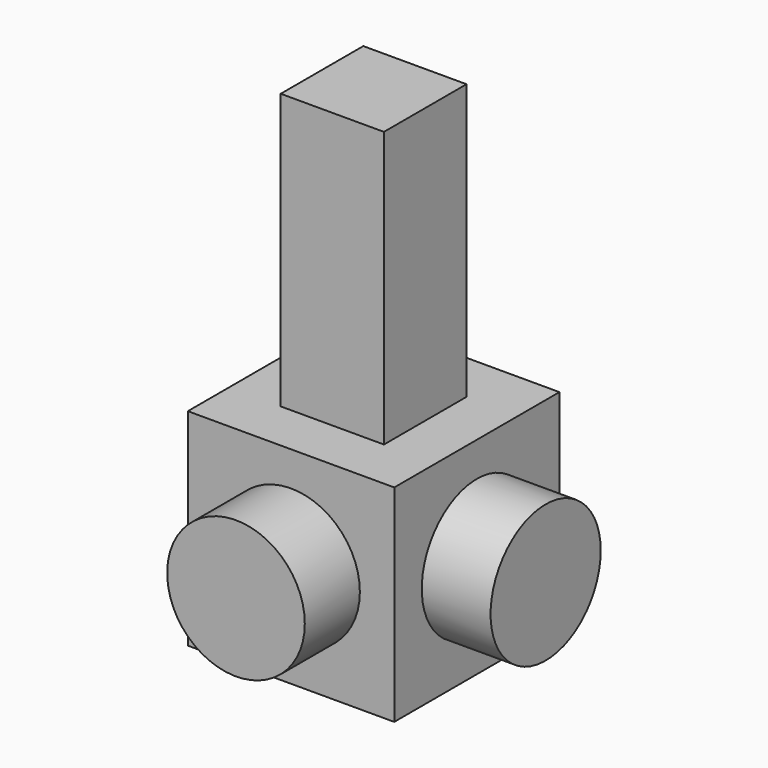
from build123d import *

# Parameters (mm, degrees)
F0_W      = 76.2
F0_H      = 76.2
F1_DEPTH  = 25.4
F1_FACE_W = 76.2
F1_FACE_H = 76.2
F2_DEPTH  = 50.8
F3_R      = 25.4
F4_DEPTH  = 25.4
F5_R      = 25.4
F6_DEPTH  = 25.4
F7_W      = 38.1
F7_H      = 38.1
F8_DEPTH  = 101.6


with BuildPart() as f1:
    # F0 (on Front) → F1 (new body)
    with BuildSketch(Plane.XZ):
        with Locations((-36.805706, 34.59075)):
            Rectangle(F0_W, F0_H)
    extrude(amount=F1_DEPTH)

    # F1_face (on face) → F2 (join)
    with BuildSketch(Plane(origin=(-36.805706, -25.4, 34.59075), x_dir=(1, 0, 0), z_dir=(0, -1, 0))):
        Rectangle(F1_FACE_W, F1_FACE_H)
    extrude(amount=F2_DEPTH)

    # F3 (on face) → F4 (join)
    with BuildSketch(Plane.XZ.offset(76.2)):
        with Locations((-36.805706, 34.59075)):
            Circle(F3_R)
    extrude(amount=F4_DEPTH)

    # F5 (on face) → F6 (join)
    with BuildSketch(Plane.YZ.offset(1.294294)):
        with Locations((-38.1, 34.59075)):
            Circle(F5_R)
    extrude(amount=F6_DEPTH)

    # F7 (on face) → F8 (join)
    with BuildSketch(Plane.XY.offset(72.69075)):
        with Locations((-36.805706, -38.1)):
            Rectangle(F7_W, F7_H)
    extrude(amount=F8_DEPTH)


solid = f1.part
